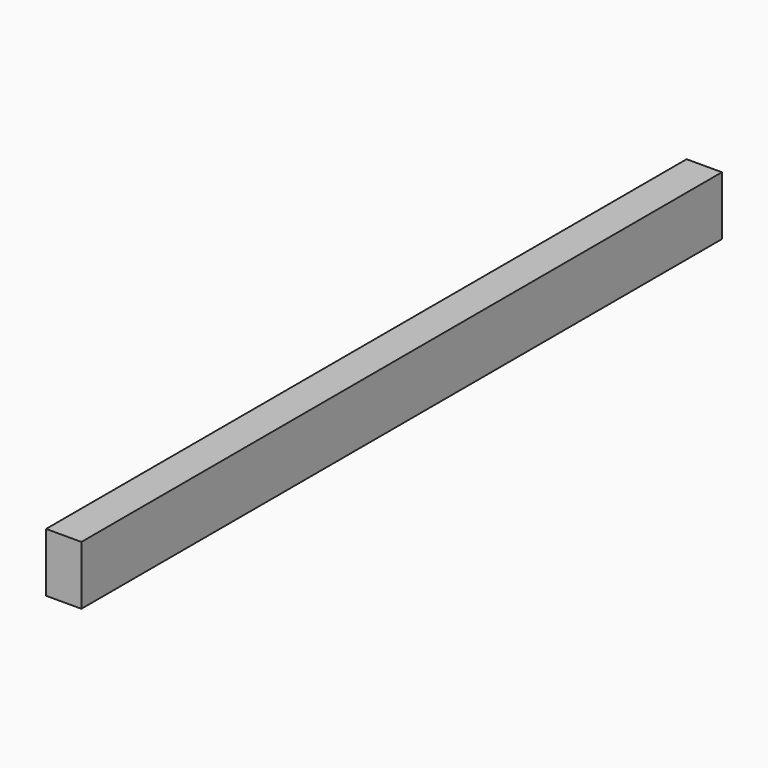
from build123d import *

# Parameters (mm, degrees)
SKETCH_W  = 60
SKETCH_H  = 100
PAD_DEPTH = 680


with BuildPart() as part:
    # Sketch → Pad (new body, symmetric)
    with BuildSketch(Plane.XZ):
        Rectangle(SKETCH_W, SKETCH_H)
    extrude(amount=PAD_DEPTH, both=True)


solid = part.part
